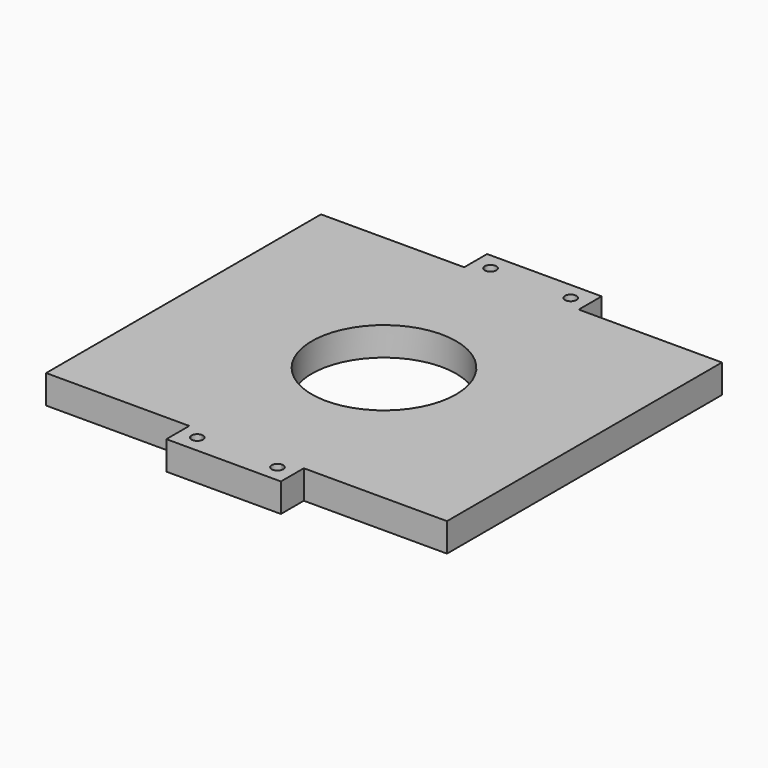
from build123d import *

# Parameters (mm, degrees)
F0_R     = 16.002
F1_DEPTH = 6.35


with BuildPart() as f1:
    # F0 (on Top) → F1 (new body)
    with BuildSketch(Plane.XY):
        Polygon((-31.75, 0), (0, 0), (0, 38.1), (0, 76.2), (-31.75, 76.2), (-35.56, 76.2), (-53.34, 76.2), (-57.15, 76.2), (-88.9, 76.2), (-88.9, 0), (-57.15, 0), (-53.34, 0), (-35.56, 0), align=None)
        with Locations((-44.45, 38.1)):
            Circle(F0_R, mode=Mode.SUBTRACT)
        Polygon((-35.56, 76.2), (-31.75, 76.2), (-31.75, 78.74), (-31.75, 82.55), (-57.15, 82.55), (-57.15, 78.74), (-57.15, 76.2), (-53.34, 76.2), align=None)
        with BuildLine():
            ThreePointArc((-53.34, 77.47), (-54.238026, 77.841974), (-54.61, 78.74))
            ThreePointArc((-54.61, 78.74), (-53.34, 80.01), (-52.07, 78.74))
            ThreePointArc((-52.07, 78.74), (-52.441974, 77.841974), (-53.34, 77.47))
        make_face(mode=Mode.SUBTRACT)
        with BuildLine():
            ThreePointArc((-35.56, 77.47), (-36.458026, 79.638026), (-34.29, 78.74))
            ThreePointArc((-34.29, 78.74), (-34.661974, 77.841974), (-35.56, 77.47))
        make_face(mode=Mode.SUBTRACT)
        Polygon((-31.75, -2.54), (-31.75, 0), (-35.56, 0), (-53.34, 0), (-57.15, 0), (-57.15, -2.54), (-57.15, -6.35), (-31.75, -6.35), align=None)
        with BuildLine():
            ThreePointArc((-52.07, -2.54), (-53.34, -3.81), (-54.61, -2.54))
            ThreePointArc((-54.61, -2.54), (-54.238026, -1.641974), (-53.34, -1.27))
            ThreePointArc((-53.34, -1.27), (-52.441974, -1.641974), (-52.07, -2.54))
        make_face(mode=Mode.SUBTRACT)
        with BuildLine():
            ThreePointArc((-35.56, -1.27), (-34.661974, -1.641974), (-34.29, -2.54))
            ThreePointArc((-34.29, -2.54), (-36.458026, -3.438026), (-35.56, -1.27))
        make_face(mode=Mode.SUBTRACT)
    extrude(amount=F1_DEPTH)


solid = f1.part
